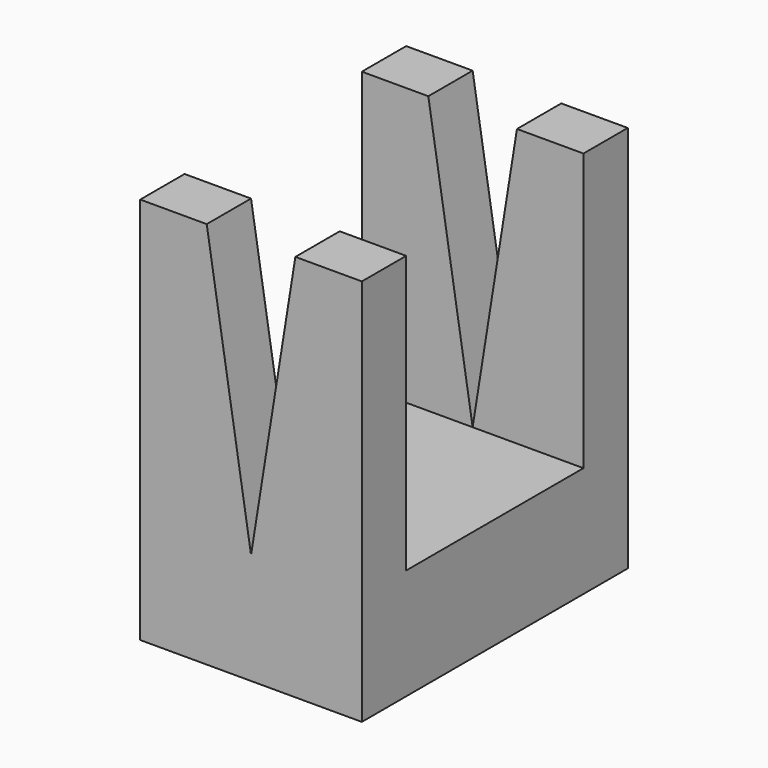
from build123d import *

# Parameters (mm, degrees)
F1_DEPTH = 5
F2_W     = 20
F2_H     = 10
F3_DEPTH = 10


with BuildPart() as f1:
    # F0 (on Front) → F1 (new body)
    with BuildSketch(Plane.XZ):
        Polygon((0, 35), (0, 0), (10, 0), (20, 0), (20, 35), (14, 35), (10, 10), (6, 35), align=None)
    extrude(amount=F1_DEPTH)

    # F2 (on face) → F3 (join)
    with BuildSketch(Plane.XZ.offset(5)):
        with Locations((10, 5)):
            Rectangle(F2_W, F2_H)
    extrude(amount=F3_DEPTH)

    # F4: F1 across face


with BuildPart() as f1_1:
    add(f1.part)
    add(f1.part.mirror(Plane(origin=(10, -15, 5), x_dir=(1, 0, 0), z_dir=(0, -1, 0))))


solid = f1_1.part
